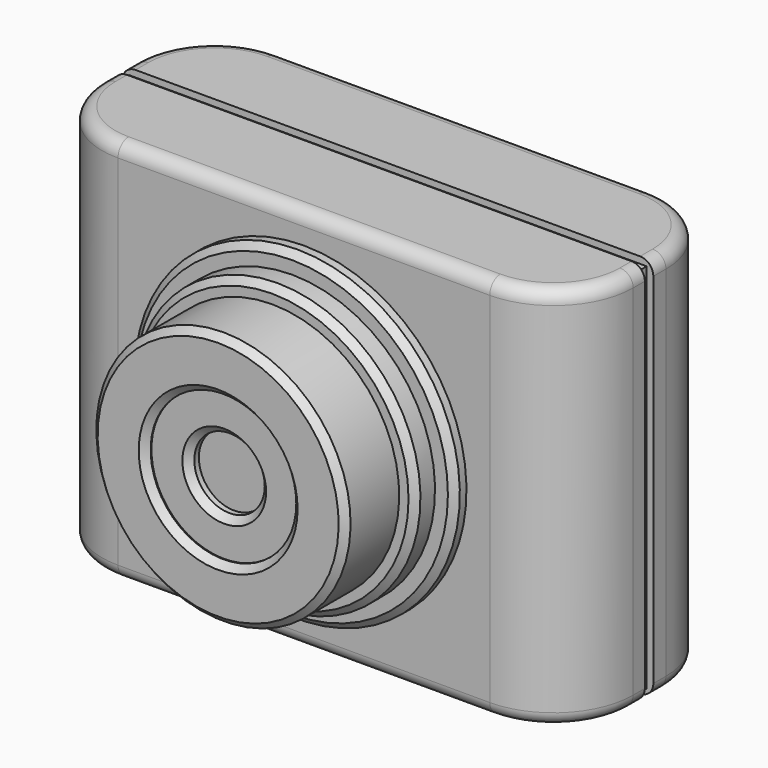
from build123d import *

# Parameters (mm, degrees)
F0_W     = 40
F0_H     = 29
F0_R     = 12.2201503023
F0_R_2   = 10.8303270275
F0_R_3   = 9.5580037693
F0_R_4   = 5.4847630388
F0_R_5   = 2.6532695581
F2_DEPTH = 15.08599
F1_W     = 5.0759501755
F1_H     = 9.5779409166
F4_START = 7.5
F4_DEPTH = 0.5727357417
F5_DEPTH = 1.5
F7_W     = 40
F7_H     = 29
F8_DEPTH = 0.4
F9_T     = -0.5
F11_R    = 6
F12_R    = 1
F13_SIZE = 0.5


with BuildPart() as f2:
    # F0 (on Front) → F2 (new body)
    with BuildSketch(Plane.XZ):
        Rectangle(F0_W, F0_H)
        Circle(F0_R, mode=Mode.SUBTRACT)
        Circle(F0_R)
        Circle(F0_R_2, mode=Mode.SUBTRACT)
        Circle(F0_R_2)
        Circle(F0_R_3, mode=Mode.SUBTRACT)
        Circle(F0_R_3)
        Circle(F0_R_4, mode=Mode.SUBTRACT)
        Circle(F0_R_4)
        Circle(F0_R_5, mode=Mode.SUBTRACT)
        Circle(F0_R_5)
    extrude(amount=-F2_DEPTH)


with BuildPart() as f3:
    # F1 (on Right) → F3 (revolve)
    with BuildSketch(Plane.YZ):
        Polygon((0, 0), (0, 12.249491876), (-1.1267004302, 12.249491876), (-1.1267004302, 10.7801386621), (-1.1267004302, 0), align=None)
        Polygon((-2.9967855662, 0), (-1.1267004302, 0), (-1.1267004302, 10.7801386621), (-2.9967855662, 10.7801386621), (-2.9967855662, 9.5779409166), align=None)
        with Locations((-5.534760654, 4.7889704583)):
            Rectangle(F1_W, F1_H)
    revolve(axis=Axis((0, -4.0363678709, 0), (0, -1, 0)))

    # F0 (on Front) → F4 (cut)
    with BuildSketch(Plane.XZ.offset(F4_START)):
        Circle(F0_R_4)
        Circle(F0_R_5, mode=Mode.SUBTRACT)
    extrude(amount=F4_DEPTH, mode=Mode.SUBTRACT)

    # F5 (cut): a face of the model
    f5_faces = [f3.faces().sort_by_distance(p)[0] for p in [
        (0, -8.0727357417, 0),
    ]]
    extrude(f5_faces, amount=-F5_DEPTH, mode=Mode.SUBTRACT)

    # F13
    f13_edges = [f3.edges().sort_by_distance(p)[0] for p in [
        (0, -8.072736, -9.577941),
        (0, -2.996786, -10.780139),
        (0, -1.1267, -12.249492),
        (-5.484763, -8.072736, 0),
        (-2.65327, -7.5, 0),
    ]]
    chamfer(f13_edges, length=F13_SIZE)


with BuildPart() as f8:
    # F7 (on offset) → F8 (new body, symmetric)
    with BuildSketch(Plane.XZ.offset(-7.5)):
        Rectangle(F7_W, F7_H)
    extrude(amount=F8_DEPTH, both=True)

    # F9
    f9_openings = [f8.faces().sort_by_distance(p)[0] for p in [
        (0, 7.1, 0),
        (0, 7.9, 0),
    ]]
    offset(amount=F9_T, openings=f9_openings)


with BuildPart() as f2_1:
    add(f2.part)

    # F10: cut F8
    add(f8.part, mode=Mode.SUBTRACT)

    # F11
    f11_edges = [f2_1.edges().sort_by_distance(p)[0] for p in [
        (20, 0, 0),
        (20, 15.08599, 0),
        (-20, 0, 0),
        (-20, 15.08599, 0),
    ]]
    fillet(f11_edges, radius=F11_R)

    # F12
    f12_edges = [f2_1.edges().sort_by_distance(p)[0] for p in [
        (0, 0, 14.5),
        (0, 15.08599, 14.5),
        (0, 15.08599, -14.5),
        (0, 0, -14.5),
    ]]
    fillet(f12_edges, radius=F12_R)


solid = Compound([f3.part, f2_1.part])
